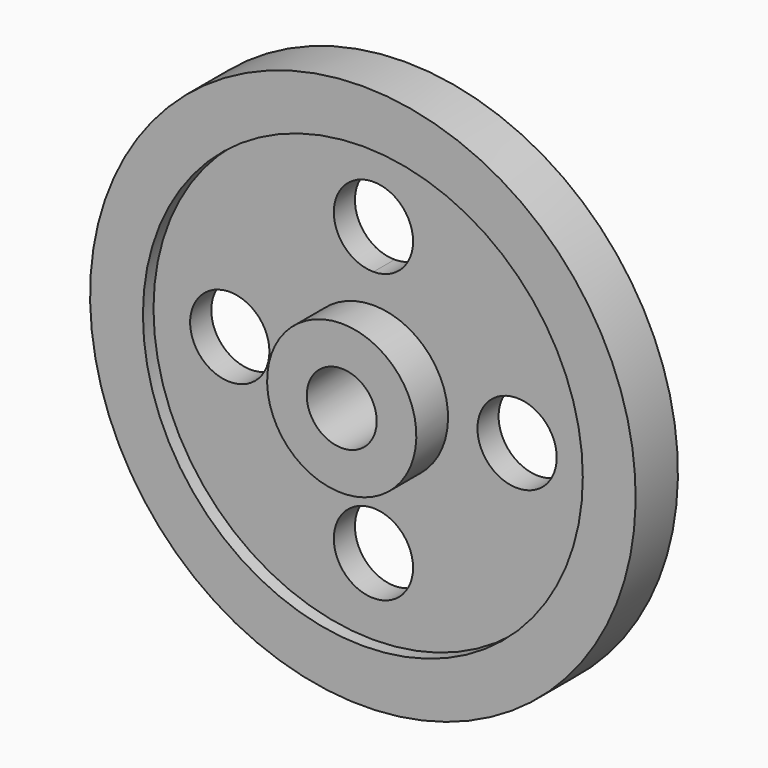
from build123d import *

# Parameters (mm, degrees)
F2_R     = 19.05
F3_DEPTH = 25.4


with BuildPart() as f1:
    # F0 (on Right) → F1 (revolve)
    with BuildSketch(Plane.YZ):
        Polygon((-25.4, 16.811958), (0, 16.811958), (0, 26.336958), (0, 28.782088), (-6.35, 28.782088), (-6.35, 35.861958), (-25.4, 35.861958), align=None)
        Polygon((0, 26.336958), (0, 16.811958), (25.4, 16.811958), (25.4, 35.861958), (6.35, 35.861958), (6.35, 105.711958), (12.7, 105.711958), (12.7, 131.111958), (-12.7, 131.111958), (-12.7, 105.711958), (-6.35, 105.711958), (-6.35, 35.861958), (-6.35, 28.782088), (0, 28.782088), align=None)
    revolve(axis=Axis((0, 18.4531, 0), (0, 1, 0)))

    # F2 (on face) → F3 (cut)
    with BuildSketch(Plane.XZ.offset(6.35)):
        with BuildLine():
            ThreePointArc((19.05, 69.047159), (-13.470384, 82.517543), (0, 49.997159))
            ThreePointArc((0, 49.997159), (13.470384, 55.576775), (19.05, 69.047159))
        make_face()
        with Locations((69.047159, 0)):
            Circle(F2_R)
        with Locations((0, -69.047159)):
            Circle(F2_R)
        with Locations((-69.047159, 0)):
            Circle(F2_R)
    extrude(amount=-F3_DEPTH, mode=Mode.SUBTRACT)


solid = f1.part
